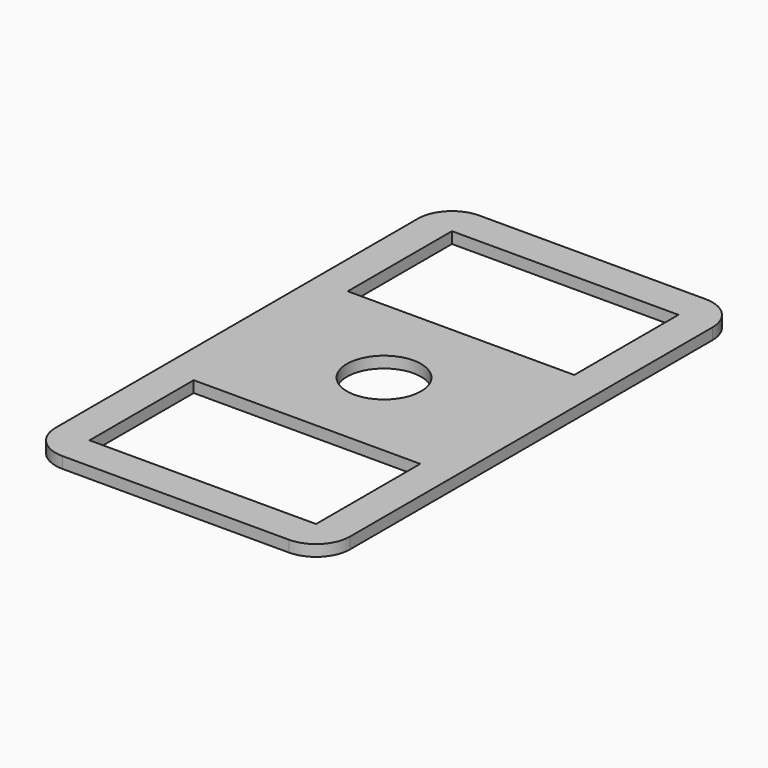
from build123d import *

# Parameters (mm, degrees)
F0_W     = 20
F0_H     = 11.5
F0_R     = 3.275
F1_DEPTH = 1
F2_R     = 3


with BuildPart() as f1:
    # F0 (on Top) → F1 (new body)
    with BuildSketch(Plane.XY):
        Polygon((13, 23), (-13, 23), (-13, 8.5), (-13, 0), (-13, -8.5), (-13, -23), (13, -23), (13, -8.5), (13, 0), (13, 8.5), align=None)
        with Locations((0, -14.25)):
            Rectangle(F0_W, F0_H, mode=Mode.SUBTRACT)
        Circle(F0_R, mode=Mode.SUBTRACT)
        with Locations((0, 14.25)):
            Rectangle(F0_W, F0_H, mode=Mode.SUBTRACT)
    extrude(amount=F1_DEPTH)

    # F2
    f2_edges = [f1.edges().sort_by_distance(p)[0] for p in [
        (13, -23, 0.5),
        (-13, -23, 0.5),
        (13, 23, 0.5),
        (-13, 23, 0.5),
    ]]
    fillet(f2_edges, radius=F2_R)


solid = f1.part
